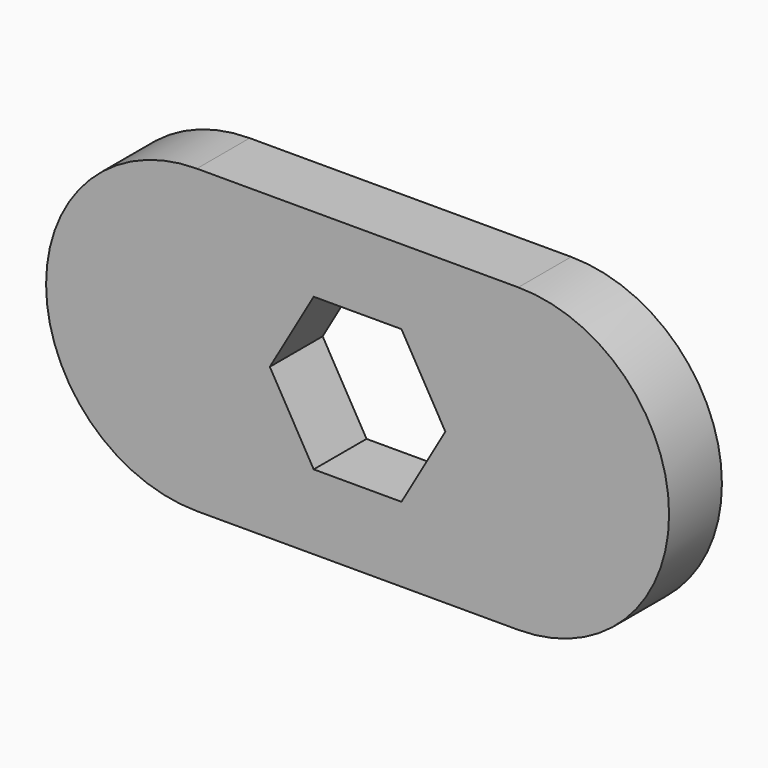
from build123d import *

# Parameters (mm, degrees)
PAD_DEPTH = 2.65


with BuildPart() as part:
    # Sketch → Pad (new body)
    with BuildSketch(Plane.XZ):
        with BuildLine():
            ThreePointArc((-6.45, 6.05), (-12.5, 0), (-6.45, -6.05))
            Line((-6.45, -6.05), (6.45, -6.05))
            ThreePointArc((6.45, -6.05), (12.5, 0), (6.45, 6.05))
            Line((6.45, 6.05), (-6.45, 6.05))
        make_face()
        Polygon((1.760918, 3.05), (-1.760918, 3.05), (-3.521837, 0), (-1.760918, -3.05), (1.760918, -3.05), (3.521837, 0), align=None, mode=Mode.SUBTRACT)
    extrude(amount=PAD_DEPTH)


solid = part.part
